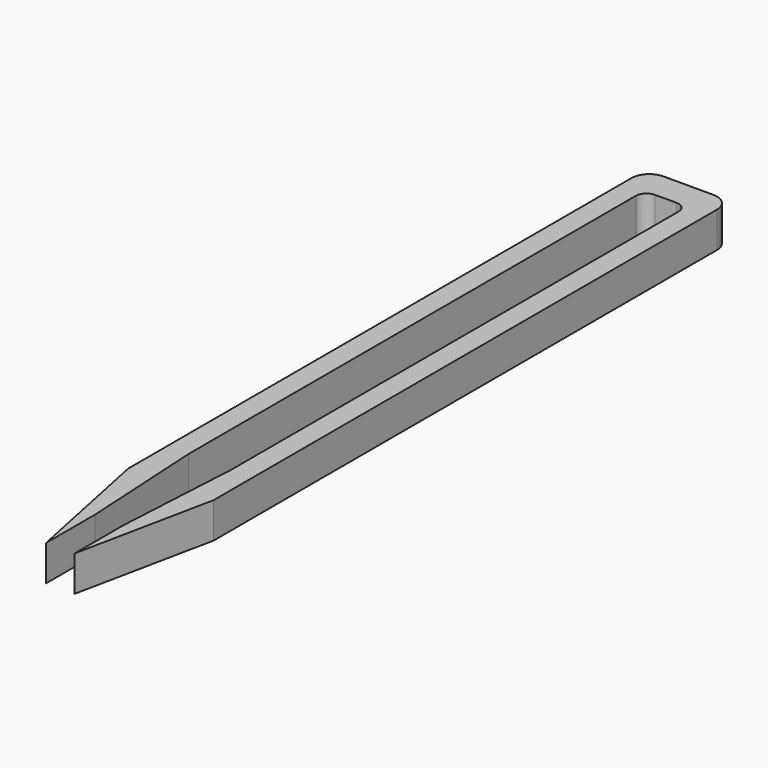
from build123d import *

# Parameters (mm, degrees)
F1_DEPTH = 10
F2_R     = 3
F3_R     = 5


with BuildPart() as f1:
    # F0 (on Top) → F1 (new body)
    with BuildSketch(Plane.XY):
        Polygon((-6, 105.431184), (0, 105.431184), (6, 105.431184), (6, -54.568816), (4, -89.978623), (4, -107.107288), (12, -68.312444), (12, 113.431184), (0, 113.431184), (-12, 113.431184), (-12, -68.312444), (-4, -107.107288), (-4, -89.978623), (-6, -54.568816), align=None)
    extrude(amount=F1_DEPTH)

    # F2
    f2_edges = [f1.edges().sort_by_distance(p)[0] for p in [
        (6, 105.431184, 5),
        (-6, 105.431184, 5),
    ]]
    fillet(f2_edges, radius=F2_R)

    # F3
    f3_edges = [f1.edges().sort_by_distance(p)[0] for p in [
        (-12, 113.431184, 5),
        (12, 113.431184, 5),
    ]]
    fillet(f3_edges, radius=F3_R)


solid = f1.part
